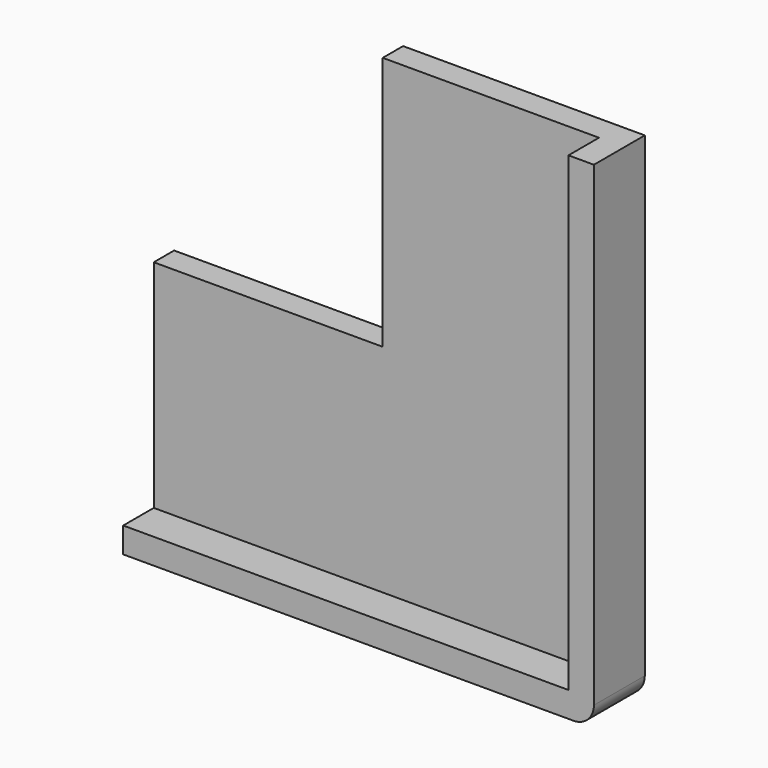
from build123d import *

# Parameters (mm, degrees)
F1_DEPTH = 6.35
F3_DEPTH = 9.525
F4_R     = 5.08


with BuildPart() as f1:
    # F0 (on Front) → F1 (new body)
    with BuildSketch(Plane.XZ):
        Polygon((0, 63.5), (0, 0), (-57.15, 0), (-57.15, -60.325), (60.325, -60.325), (60.325, 63.5), align=None)
    extrude(amount=F1_DEPTH)

    # F2 (on face) → F3 (join)
    with BuildSketch(Plane.XZ.offset(6.35)):
        Polygon((-57.15, -53.975), (-57.15, -60.325), (60.325, -60.325), (60.325, 63.5), (53.975, 63.5), (53.975, -53.975), align=None)
    extrude(amount=F3_DEPTH)

    # F4
    f4_edges = [f1.edges().sort_by_distance(p)[0] for p in [
        (60.325, -7.9375, -60.325),
    ]]
    fillet(f4_edges, radius=F4_R)


solid = f1.part
